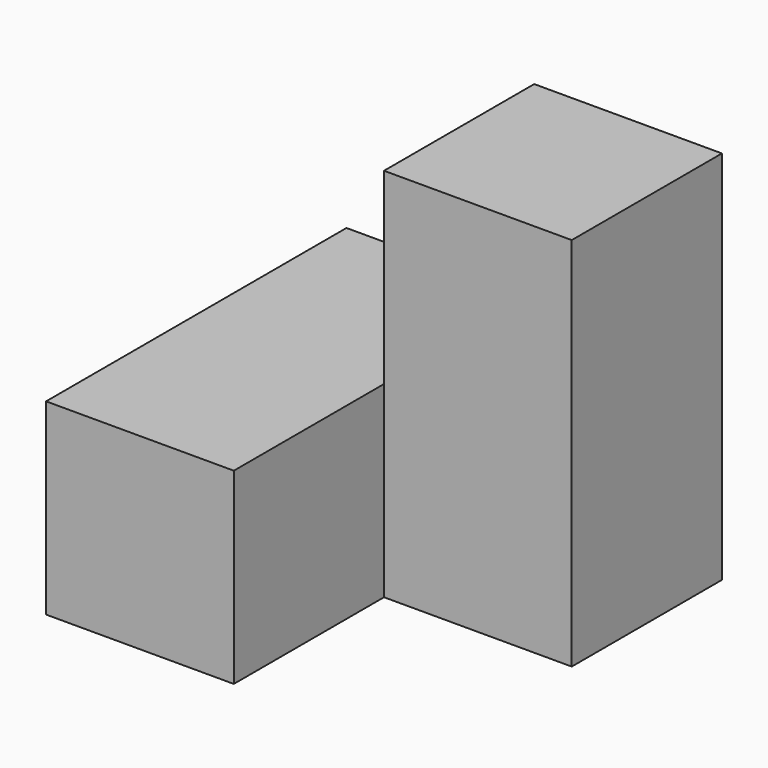
from build123d import *

# Parameters (mm, degrees)
F0_W     = 25.4
F0_H     = 25.4
F1_DEPTH = 50.8
F2_DEPTH = 25.4


with BuildPart() as f1:
    # F0 (on Front) → F1 (new body)
    with BuildSketch(Plane.XZ):
        with Locations((-12.7, 12.7)):
            Rectangle(F0_W, F0_H)
    extrude(amount=F1_DEPTH)

    # F0 (on Front) → F2 (join)
    with BuildSketch(Plane.XZ):
        with Locations((12.7, 38.1)):
            Rectangle(F0_W, F0_H)
        with Locations((12.7, 12.7)):
            Rectangle(F0_W, F0_H)
    extrude(amount=F2_DEPTH)


solid = f1.part
